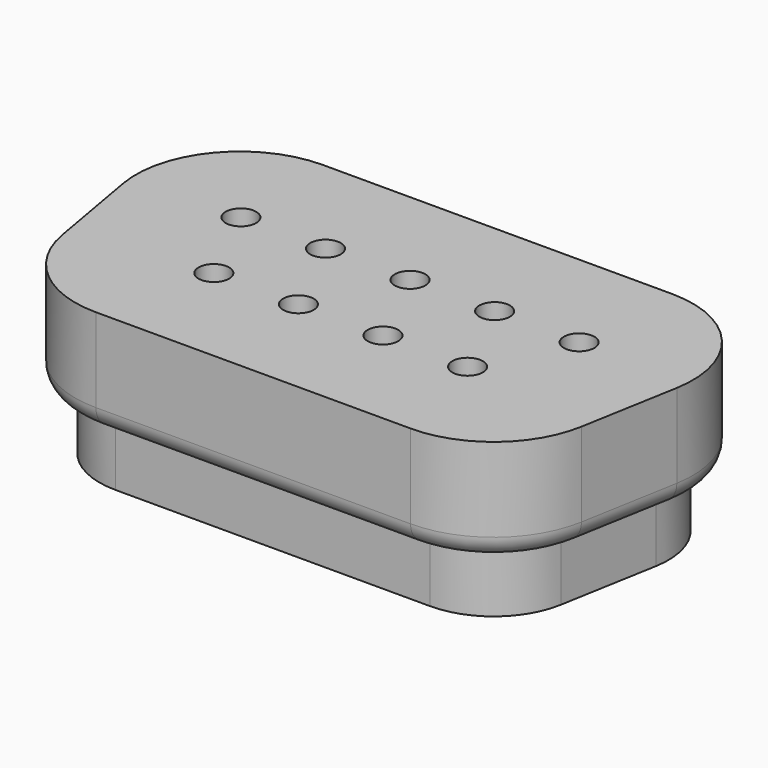
from build123d import *

# Parameters (mm, degrees)
ARRAY005_X_COUNT = 5
ARRAY005_X_PITCH = 2.77
ARRAY004_X_COUNT = 4
ARRAY004_X_PITCH = 2.77
SKETCH016_R      = 0.7
PAD006_DEPTH     = 0.5
ARRAY_X_COUNT    = 5
ARRAY_X_PITCH    = 2.77
SKETCH017_R      = 0.7
PAD007_DEPTH     = 0.5
ARRAY001_X_COUNT = 4
ARRAY001_X_PITCH = 2.77
PAD004_DEPTH     = 3.45
PAD005_DEPTH     = 2
FILLET007_R      = 0.7


with BuildPart() as array005:
    # Sketch020 → Revolution004 (revolve)
    with BuildSketch(Plane.XZ):
        with BuildLine():
            Line((0, 5), (0, -10.75))
            ThreePointArc((0, -10.75), (0.212132, -10.662132), (0.3, -10.45))
            Line((0.3, -10.45), (0.3, -2))
            Line((0.3, -2), (0.5, -2))
            Line((0.5, -2), (0.5, 4.5))
            ThreePointArc((0.5, 4.5), (0.353553, 4.853553), (0, 5))
        make_face()
    revolve(axis=Axis((0, 0, 0), (0, 0, 1)))


with BuildPart() as array005_1:
    # Body011 placement: moved
    add(array005.part.moved(Location((-5.54, 1.42, 0))))

    # Array005 X: Array005 ×5


with BuildPart() as array005_2:
    add(array005_1.part)
    with Locations(*[(i * ARRAY005_X_PITCH, 0, 0) for i in range(1, ARRAY005_X_COUNT)]):
        add(array005_1.part)


with BuildPart() as fusion001:
    # Sketch021 → Revolution005 (revolve)
    with BuildSketch(Plane.XZ):
        with BuildLine():
            Line((0, 5), (0, -10.75))
            ThreePointArc((0, -10.75), (0.212132, -10.662132), (0.3, -10.45))
            Line((0.3, -10.45), (0.3, -2))
            Line((0.3, -2), (0.5, -2))
            Line((0.5, -2), (0.5, 4.5))
            ThreePointArc((0.5, 4.5), (0.353553, 4.853553), (0, 5))
        make_face()
    revolve(axis=Axis((0, 0, 0), (0, 0, 1)))


with BuildPart() as fusion001_1:
    # Body012 placement: moved
    add(fusion001.part.moved(Location((-4.155, -1.42, 0))))

    # Array004 X: Fusion001 ×4


with BuildPart() as fusion001_2:
    add(fusion001_1.part)
    with Locations(*[(i * ARRAY004_X_PITCH, 0, 0) for i in range(1, ARRAY004_X_COUNT)]):
        add(fusion001_1.part)

    # Fusion001: union Array005
    add(array005_2.part)


with BuildPart() as array:
    # Sketch016 → Pad006 (new body)
    with BuildSketch(Plane.XY):
        Circle(SKETCH016_R)
    extrude(amount=-PAD006_DEPTH)


with BuildPart() as array_1:
    # Body007 placement: moved
    add(array.part.moved(Location((-5.54, 1.42, -5.45))))

    # Array X: Array ×5


with BuildPart() as array_2:
    add(array_1.part)
    with Locations(*[(i * ARRAY_X_PITCH, 0, 0) for i in range(1, ARRAY_X_COUNT)]):
        add(array_1.part)


with BuildPart() as array001:
    # Sketch017 → Pad007 (new body)
    with BuildSketch(Plane.XY):
        Circle(SKETCH017_R)
    extrude(amount=-PAD007_DEPTH)


with BuildPart() as array001_1:
    # Body008 placement: moved
    add(array001.part.moved(Location((-4.155, -1.42, -5.45))))

    # Array001 X: Array001 ×4


with BuildPart() as array001_2:
    add(array001_1.part)
    with Locations(*[(i * ARRAY001_X_PITCH, 0, 0) for i in range(1, ARRAY001_X_COUNT)]):
        add(array001_1.part)


with BuildPart() as cut:
    # Sketch014 → Pad004 (new body)
    with BuildSketch(Plane.XY):
        with BuildLine():
            Line((-5.72, 5), (5.72, 5))
            ThreePointArc((9.068211, 1.008831), (8.324801, 3.78518), (5.72, 5))
            Line((9.068211, 1.008831), (8.503211, -2.191169))
            ThreePointArc((5.155, -5), (7.34018, -4.204801), (8.503211, -2.191169))
            Line((5.155, -5), (-5.155, -5))
            ThreePointArc((-8.503211, -2.191169), (-7.34018, -4.204801), (-5.155, -5))
            Line((-8.503211, -2.191169), (-9.068211, 1.008831))
            ThreePointArc((-5.72, 5), (-8.324801, 3.78518), (-9.068211, 1.008831))
        make_face()
    extrude(amount=-PAD004_DEPTH)

    # Sketch015 (on Face10 of Pad004) → Pad005 (join)
    with BuildSketch(Plane(origin=(0, 0, -3.45), x_dir=(1, 0, 0), z_dir=(0, 0, -1))):
        with BuildLine():
            Line((-5.155, 4.2), (5.155, 4.2))
            ThreePointArc((7.715397, 2.05207), (6.82602, 3.591906), (5.155, 4.2))
            Line((7.715397, 2.05207), (8.280397, -1.14793))
            ThreePointArc((5.72, -4.2), (7.711906, -3.27102), (8.280397, -1.14793))
            Line((5.72, -4.2), (-5.72, -4.2))
            ThreePointArc((-8.280397, -1.14793), (-7.711906, -3.27102), (-5.72, -4.2))
            Line((-8.280397, -1.14793), (-7.715397, 2.05207))
            ThreePointArc((-5.155, 4.2), (-6.82602, 3.591906), (-7.715397, 2.05207))
        make_face()
    extrude(amount=PAD005_DEPTH)

    # Fillet007
    fillet007_edges = [cut.edges().sort_by_distance(p)[0] for p in [
        (-8.785711, -0.591169, -3.45),
    ]]
    fillet(fillet007_edges, radius=FILLET007_R)

    # Fusion: union Array, Array001
    add(array_2.part)
    add(array001_2.part)

    # Cut: cut Fusion001
    add(fusion001_2.part, mode=Mode.SUBTRACT)


solid = cut.part
